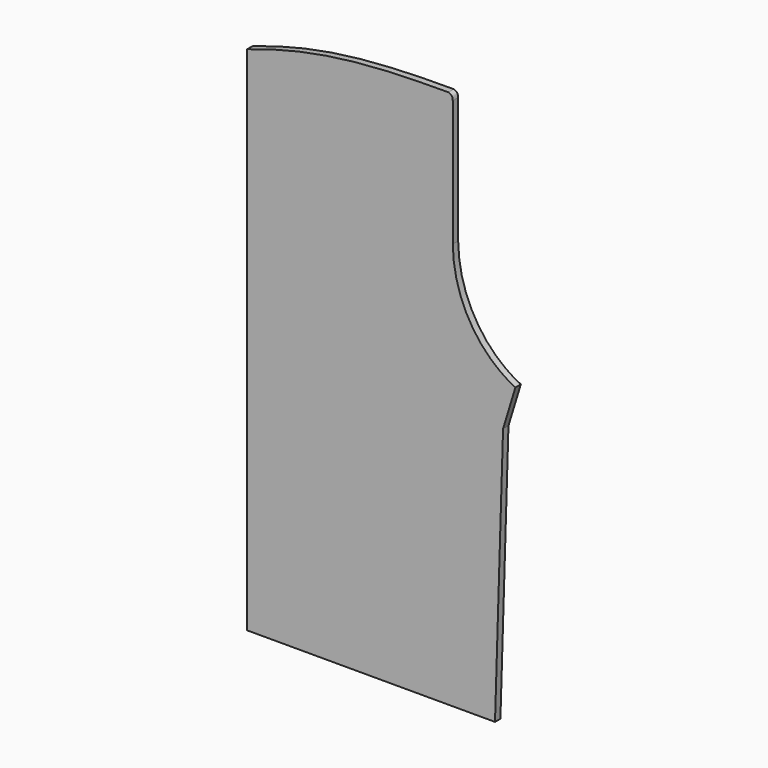
from build123d import *

# Parameters (mm, degrees)
F1_DEPTH = 1.5


with BuildPart() as f1:
    # F0 (on Front) → F1 (new body)
    with BuildSketch(Plane.XZ):
        with BuildLine():
            Line((0, 113.537979), (0, 0))
            Line((0, 0), (55, 0))
            Line((55, 0), (56.785668, 57.837613))
            Line((56.785668, 57.837613), (59.529338, 66.82092))
            add(Edge.make_bspline(
                [(45.622184, 90.300479), (45.770457, 78.957644), (52.196053, 70.31383), (59.529338, 66.82092)],
                knots=[0, 0, 0, 0, 27.289167, 27.289167, 27.289167, 27.289167], degree=3))
            Line((45.622184, 90.300479), (45.622184, 118.319665))
            add(Edge.make_bspline(
                [(44.648624, 119.647246), (45.27783, 119.486517), (45.622184, 119.082141), (45.622184, 118.319665)],
                knots=[0, 0, 0, 0, 1.646296, 1.646296, 1.646296, 1.646296], degree=3))
            add(Edge.make_bspline(
                [(0, 113.537979), (14.167781, 118.384039), (25.760753, 119.647246), (44.648624, 119.647246)],
                knots=[0, 0, 0, 0, 45.064651, 45.064651, 45.064651, 45.064651], degree=3))
        make_face()
    extrude(amount=F1_DEPTH)


solid = f1.part
